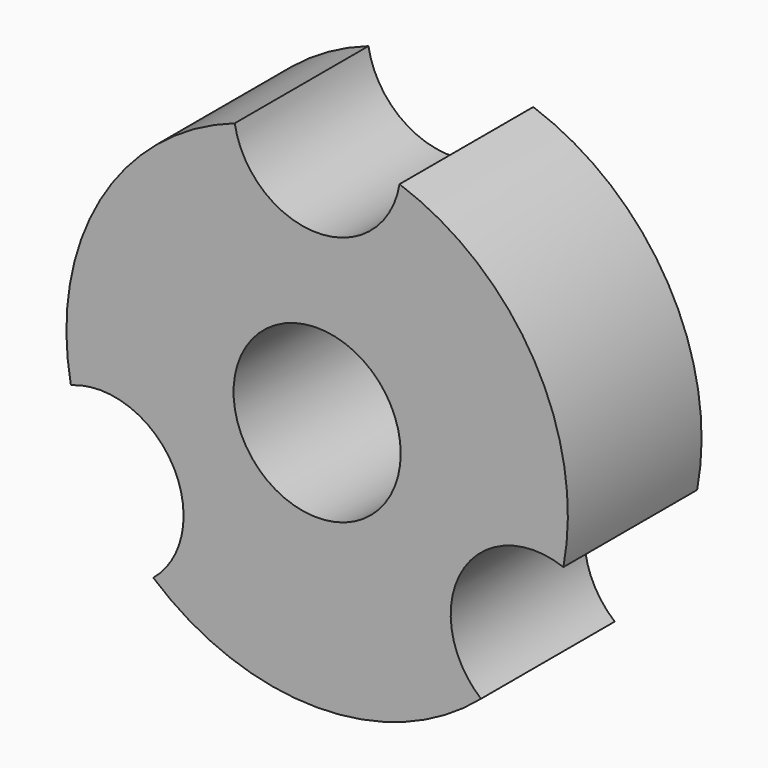
from build123d import *

# Parameters (mm, degrees)
F0_R     = 38.1
F0_R_2   = 12.7
F1_DEPTH = 25.4
F3_DEPTH = 25.4


with BuildPart() as f1:
    # F0 (on Front) → F1 (new body)
    with BuildSketch(Plane.XZ):
        Circle(F0_R)
        Circle(F0_R_2, mode=Mode.SUBTRACT)
    extrude(amount=F1_DEPTH)

    # F2 (on face) → F3 (cut)
    with BuildSketch(Plane.XZ.offset(25.4)):
        with BuildLine():
            ThreePointArc((12.522369, 35.983333), (12.655514, 37.037946), (12.7, 38.1))
            ThreePointArc((12.7, 38.1), (-1.062054, 50.755514), (-12.522369, 35.983333))
            ThreePointArc((-12.522369, 35.983333), (0, 38.1), (12.522369, 35.983333))
        make_face()
        with BuildLine():
            ThreePointArc((-20.295568, -19.05), (-25.748045, -8.62103), (-37.423665, -7.146977))
            ThreePointArc((-37.423665, -7.146977), (-32.995568, -19.05), (-24.901296, -28.836356))
            ThreePointArc((-24.901296, -28.836356), (-21.504544, -24.457992), (-20.295568, -19.05))
        make_face()
        with BuildLine():
            ThreePointArc((24.901296, -28.836356), (32.995568, -19.05), (37.423665, -7.146977))
            ThreePointArc((37.423665, -7.146977), (21.997045, -12.7), (24.901296, -28.836356))
        make_face()
        with BuildLine():
            ThreePointArc((12.522369, 35.983333), (0, 38.1), (-12.522369, 35.983333))
            ThreePointArc((-12.522369, 35.983333), (0, 25.4), (12.522369, 35.983333))
        make_face()
        with BuildLine():
            ThreePointArc((45.695568, -19.05), (43.424538, -11.802478), (37.423665, -7.146977))
            ThreePointArc((37.423665, -7.146977), (32.995568, -19.05), (24.901296, -28.836356))
            ThreePointArc((24.901296, -28.836356), (38.40356, -30.541024), (45.695568, -19.05))
        make_face()
        with BuildLine():
            ThreePointArc((-24.901296, -28.836356), (-32.995568, -19.05), (-37.423665, -7.146977))
            ThreePointArc((-37.423665, -7.146977), (-43.994091, -25.4), (-24.901296, -28.836356))
        make_face()
    extrude(amount=-F3_DEPTH, mode=Mode.SUBTRACT)


solid = f1.part
